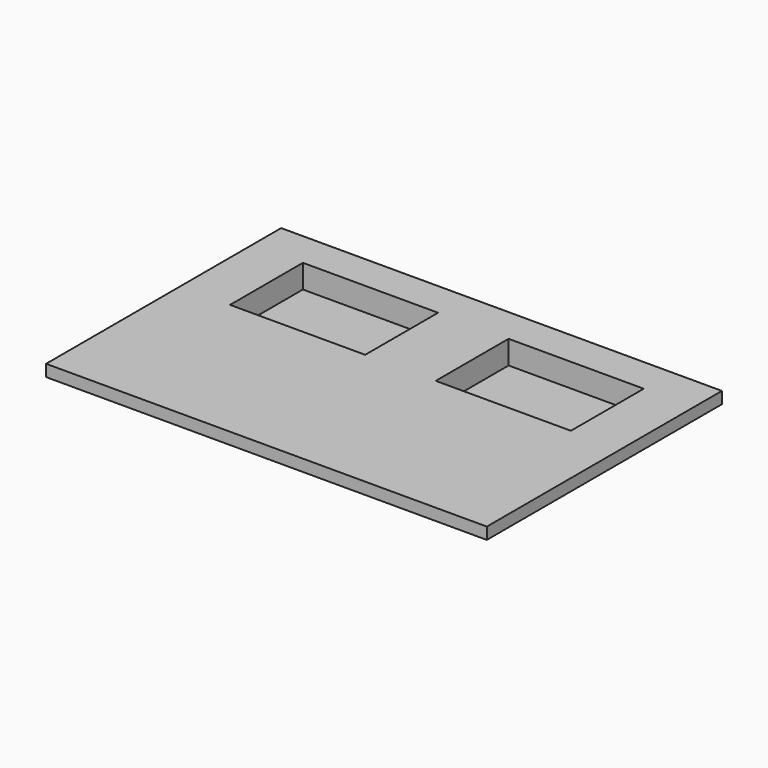
from build123d import *

# Parameters (mm, degrees)
F0_W     = 381
F0_H     = 254
F0_W_2   = 127
F0_H_2   = 88.9
F1_DEPTH = 10.16
F2_W     = 127
F2_H     = 88.9
F3_DEPTH = 38.1
F4_W     = 116.84
F4_H     = 78.74
F5_DEPTH = 20.32


with BuildPart() as f1:
    # F0 (on Top) → F1 (new body)
    with BuildSketch(Plane.XY):
        with Locations((0.95677, 23.492131)):
            Rectangle(F0_W, F0_H)
        with Locations((-87.94323, -44.45)):
            Rectangle(F0_W_2, F0_H_2, mode=Mode.SUBTRACT)
        with Locations((89.85677, -44.593953)):
            Rectangle(F0_W_2, F0_H_2, mode=Mode.SUBTRACT)
        with Locations((-87.94323, -44.45)):
            Rectangle(F0_W_2, F0_H_2)
        with Locations((89.85677, -44.593953)):
            Rectangle(F0_W_2, F0_H_2)
    extrude(amount=F1_DEPTH)

    # F2 (on face) → F3 (join)
    with BuildSketch(Plane.XY.offset(10.16)):
        with Locations((-87.94323, 80.642131)):
            Rectangle(F2_W, F2_H)
        with Locations((89.85677, 80.642131)):
            Rectangle(F2_W, F2_H)
    extrude(amount=-F3_DEPTH)

    # F4 (on face) → F5 (cut)
    with BuildSketch(Plane.XY.offset(10.16)):
        with Locations((-87.94323, 80.642131)):
            Rectangle(F4_W, F4_H)
        with Locations((89.85677, 80.642131)):
            Rectangle(F4_W, F4_H)
    extrude(amount=-F5_DEPTH, mode=Mode.SUBTRACT)


solid = f1.part
